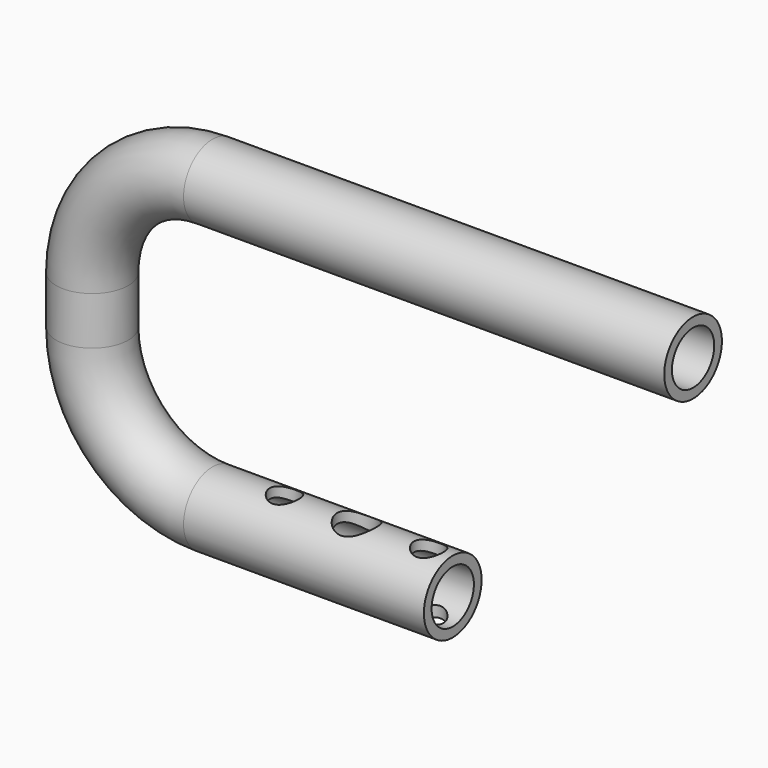
from build123d import *

# Parameters (mm, degrees)
F0_R     = 7.5
F0_R_2   = 5.5
F3_R     = 4.05
F3_R_2   = 3.05
F4_DEPTH = 15


with BuildPart() as f2:
    # F2: sweep along a path in F1
    with BuildLine(Plane.XZ) as f2_path:
        Line((0, 0), (-50, 0))
        ThreePointArc((-50, 0), (-67.67767, 7.32233), (-75, 25))
        Line((-75, 25), (-75, 35))
        ThreePointArc((-75, 35), (-67.67767, 52.67767), (-50, 60))
        Line((-50, 60), (50, 60))
    # F0 (on Right) → F2 (sweep)
    with BuildSketch(Plane.YZ):
        Circle(F0_R)
        Circle(F0_R_2, mode=Mode.SUBTRACT)
    sweep(path=f2_path.line)


with BuildPart() as f4:
    # F3 (on Top) → F4 (new body, symmetric)
    with BuildSketch(Plane.XY):
        with Locations((-20, 0)):
            Circle(F3_R)
        with Locations((-5, 0)):
            Circle(F3_R_2)
        with Locations((-35, 0)):
            Circle(F3_R_2)
    extrude(amount=F4_DEPTH, both=True)


with BuildPart() as f2_1:
    add(f2.part)

    # F5: cut F4
    add(f4.part, mode=Mode.SUBTRACT)


solid = f2_1.part
